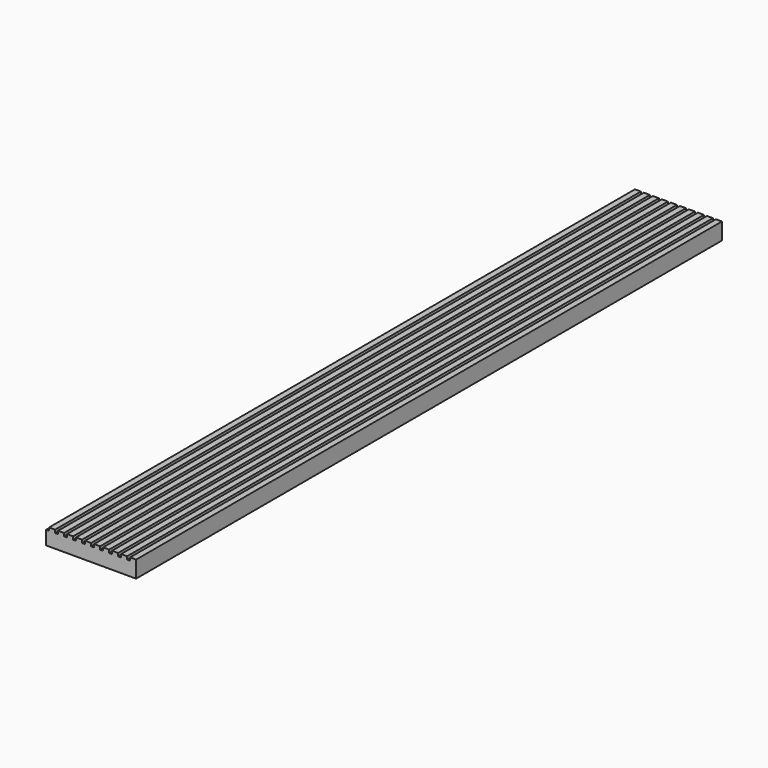
from build123d import *

# Parameters (mm, degrees)
F1_DEPTH = 1220


with BuildPart() as f1:
    # F0 (on Front) → F1 (new body)
    with BuildSketch(Plane.XZ):
        Polygon((-150, 0), (0, 0), (0, 28), (-10, 28), (-10, 23), (-15, 23), (-15, 28), (-25, 28), (-25, 23), (-30, 23), (-30, 28), (-40, 28), (-40, 23), (-45, 23), (-45, 28), (-55, 28), (-55, 23), (-60, 23), (-60, 28), (-70, 28), (-70, 23), (-75, 23), (-75, 28), (-85, 28), (-85, 23), (-90, 23), (-90, 28), (-100, 28), (-100, 23), (-105, 23), (-105, 28), (-115, 28), (-115, 23), (-120, 23), (-120, 28), (-130, 28), (-130, 23), (-135, 23), (-135, 28), (-145, 28), (-145, 23), (-150, 23), align=None)
    extrude(amount=F1_DEPTH)


solid = f1.part
